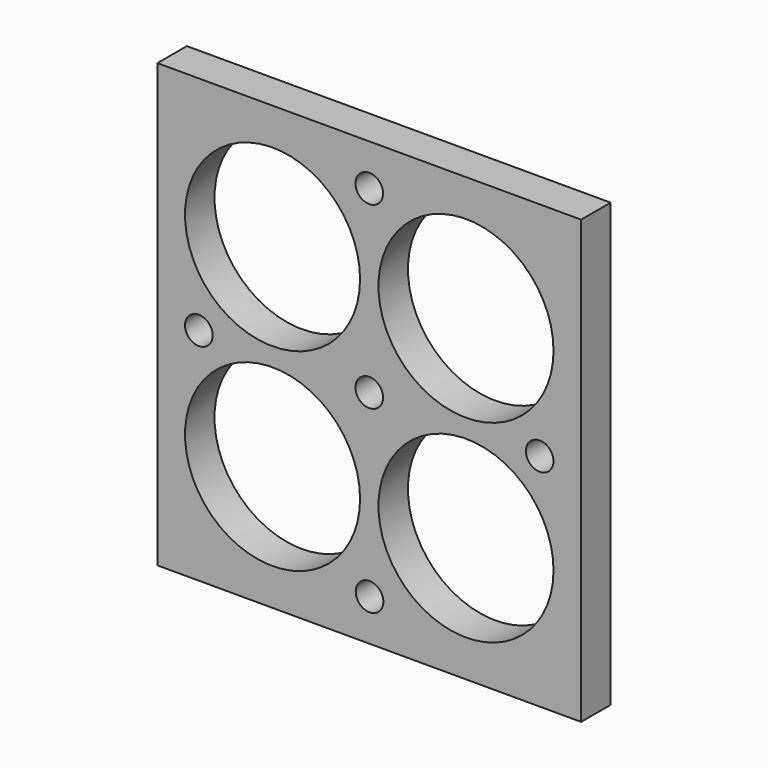
from build123d import *

# Parameters (mm, degrees)
F0_W     = 146.05
F0_H     = 152.4
F0_R     = 4.7625
F0_R_2   = 30.1625
F1_DEPTH = 6.35


with BuildPart() as f1:
    # F0 (on Front) → F1 (new body, symmetric)
    with BuildSketch(Plane.XZ):
        Rectangle(F0_W, F0_H)
        with Locations((-58.7375, -0.253282)):
            Circle(F0_R, mode=Mode.SUBTRACT)
        with Locations((-33.3375, -33.3375)):
            Circle(F0_R_2, mode=Mode.SUBTRACT)
        with Locations((0.097099, -61.9125)):
            Circle(F0_R, mode=Mode.SUBTRACT)
        with Locations((33.3375, -33.3375)):
            Circle(F0_R_2, mode=Mode.SUBTRACT)
        with Locations((58.7375, -0.194199)):
            Circle(F0_R, mode=Mode.SUBTRACT)
        with Locations((-33.3375, 33.3375)):
            Circle(F0_R_2, mode=Mode.SUBTRACT)
        Circle(F0_R, mode=Mode.SUBTRACT)
        with Locations((33.3375, 33.3375)):
            Circle(F0_R_2, mode=Mode.SUBTRACT)
        with Locations((0, 61.9125)):
            Circle(F0_R, mode=Mode.SUBTRACT)
    extrude(amount=F1_DEPTH, both=True)


solid = f1.part
